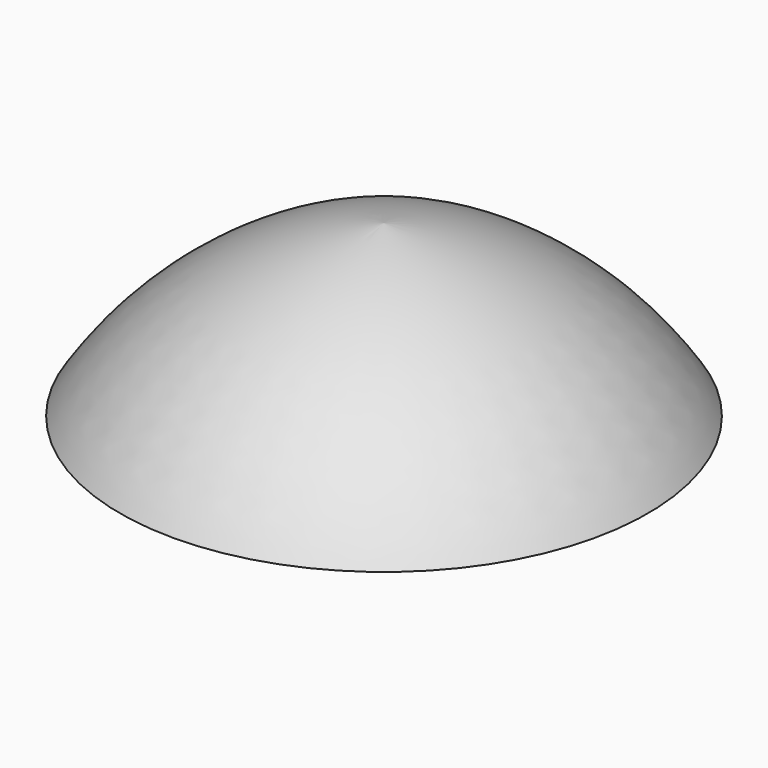
from build123d import *


with BuildPart() as f1:
    # F0 (on Right) → F1 (revolve)
    with BuildSketch(Plane.YZ):
        with BuildLine():
            Line((-14, 0), (-2.2, 0))
            Line((-2.2, 0), (-2.2, 3.2))
            Line((-2.2, 3.2), (-1.5, 3.2))
            Line((-1.5, 3.2), (-1.5, 6))
            Line((-1.5, 6), (0, 6))
            Line((0, 6), (0, 9))
            ThreePointArc((0, 9), (-7.980646, 6.025449), (-14, 0))
        make_face()
    revolve(axis=Axis((0, 0, 7.5), (0, 0, 1)))


solid = f1.part
